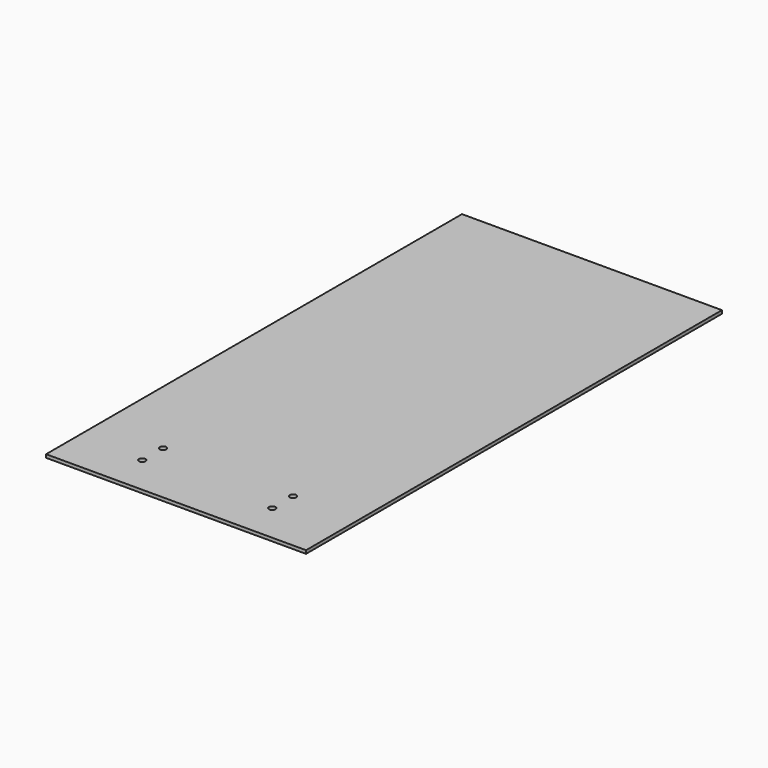
from build123d import *

# Parameters (mm, degrees)
F0_W     = 254
F0_H     = 508
F1_DEPTH = 3.175
F2_R     = 3.175
F3_DEPTH = 3.176


with BuildPart() as f1:
    # F0 (on Top) → F1 (new body)
    with BuildSketch(Plane.XY):
        with Locations((14.513212, 145.00103)):
            Rectangle(F0_W, F0_H)
    extrude(amount=F1_DEPTH)

    # F2 (on face) → F3 (cut, through all)
    with BuildSketch(Plane.XY.offset(3.175)):
        with Locations((-48.986788, -45.49897)):
            Circle(F2_R)
        with Locations((78.013212, -45.49897)):
            Circle(F2_R)
        with Locations((-48.986788, -70.89897)):
            Circle(F2_R)
        with Locations((78.013212, -70.89897)):
            Circle(F2_R)
    extrude(amount=-F3_DEPTH, mode=Mode.SUBTRACT)


solid = f1.part
